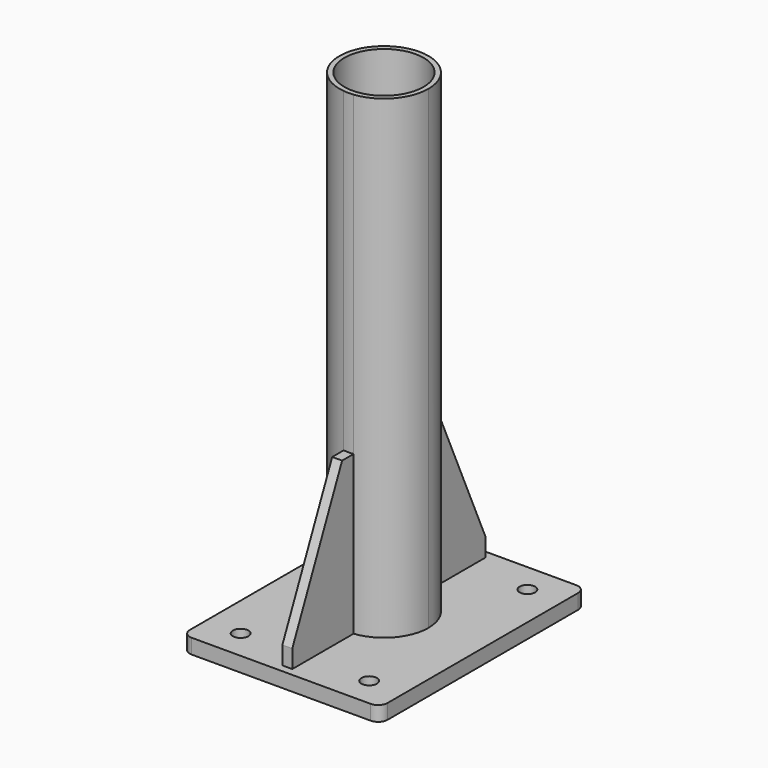
from build123d import *

# Parameters (mm, degrees)
F0_W     = 63.5
F0_H     = 82.55
F0_R     = 2.5
F0_R_2   = 12.7
F1_DEPTH = 4.7625
F2_DEPTH = 152.4
F3_DEPTH = 50.8
F4_DEPTH = 7.05
F5_DEPTH = 7.05
F6_R     = 3
F7_SIZE2 = 20
F7_SIZE  = 45
F8_SIZE2 = 20
F8_SIZE  = 45


with BuildPart() as f1:
    # F0 (on Top) → F1 (new body)
    with BuildSketch(Plane.XY):
        Rectangle(F0_W, F0_H)
        with Locations((-20.6375, -31.75)):
            Circle(F0_R, mode=Mode.SUBTRACT)
        with Locations((20.6375, -31.75)):
            Circle(F0_R, mode=Mode.SUBTRACT)
        with Locations((-20.6375, 25.4)):
            Circle(F0_R, mode=Mode.SUBTRACT)
        with Locations((-20.6375, 31.75)):
            Circle(F0_R, mode=Mode.SUBTRACT)
        with BuildLine():
            ThreePointArc((1.5875, 14.1990316571), (10.6492737428, 9.525), (14.2875, 0))
            ThreePointArc((14.2875, 0), (10.6492737428, -9.525), (1.5875, -14.1990316571))
            Line((1.5875, -14.1990316571), (1.5875, -31.75))
            Line((1.5875, -31.75), (0, -31.75))
            Line((0, -31.75), (-1.5875, -31.75))
            Line((-1.5875, -31.75), (-1.5875, -14.1990316571))
            ThreePointArc((-1.5875, -14.1990316571), (-14.2875, 0), (-1.5875, 14.1990316571))
            Line((-1.5875, 14.1990316571), (-1.5875, 31.75))
            Line((-1.5875, 31.75), (0, 31.75))
            Line((0, 31.75), (1.5875, 31.75))
            Line((1.5875, 31.75), (1.5875, 14.1990316571))
        make_face(mode=Mode.SUBTRACT)
        with Locations((20.6375, 25.4)):
            Circle(F0_R, mode=Mode.SUBTRACT)
        with Locations((20.6375, 31.75)):
            Circle(F0_R, mode=Mode.SUBTRACT)
        with BuildLine():
            Line((1.5875, -31.75), (1.5875, -14.1990316571))
            ThreePointArc((1.5875, -14.1990316571), (0, -14.2875), (-1.5875, -14.1990316571))
            Line((-1.5875, -14.1990316571), (-1.5875, -31.75))
            Line((-1.5875, -31.75), (0, -31.75))
            Line((0, -31.75), (1.5875, -31.75))
        make_face()
        with BuildLine():
            ThreePointArc((1.5875, -14.1990316571), (10.6492737428, -9.525), (14.2875, 0))
            ThreePointArc((14.2875, 0), (10.6492737428, 9.525), (1.5875, 14.1990316571))
            ThreePointArc((1.5875, 14.1990316571), (0, 14.2875), (-1.5875, 14.1990316571))
            ThreePointArc((-1.5875, 14.1990316571), (-14.2875, 0), (-1.5875, -14.1990316571))
            ThreePointArc((-1.5875, -14.1990316571), (0, -14.2875), (1.5875, -14.1990316571))
        make_face()
        Circle(F0_R_2, mode=Mode.SUBTRACT)
        Circle(F0_R_2)
        Circle(F0_R, mode=Mode.SUBTRACT)
        with BuildLine():
            ThreePointArc((-1.5875, 14.1990316571), (0, 14.2875), (1.5875, 14.1990316571))
            Line((1.5875, 14.1990316571), (1.5875, 31.75))
            Line((1.5875, 31.75), (0, 31.75))
            Line((0, 31.75), (-1.5875, 31.75))
            Line((-1.5875, 31.75), (-1.5875, 14.1990316571))
        make_face()
        with Locations((-20.6375, 25.4)):
            Circle(F0_R)
        with Locations((20.6375, 25.4)):
            Circle(F0_R)
    extrude(amount=-F1_DEPTH)

    # F0 (on Top) → F2 (join)
    with BuildSketch(Plane.XY):
        with BuildLine():
            ThreePointArc((1.5875, -14.1990316571), (10.6492737428, -9.525), (14.2875, 0))
            ThreePointArc((14.2875, 0), (10.6492737428, 9.525), (1.5875, 14.1990316571))
            ThreePointArc((1.5875, 14.1990316571), (0, 14.2875), (-1.5875, 14.1990316571))
            ThreePointArc((-1.5875, 14.1990316571), (-14.2875, 0), (-1.5875, -14.1990316571))
            ThreePointArc((-1.5875, -14.1990316571), (0, -14.2875), (1.5875, -14.1990316571))
        make_face()
        Circle(F0_R_2, mode=Mode.SUBTRACT)
    extrude(amount=F2_DEPTH)

    # F0 (on Top) → F3 (join)
    with BuildSketch(Plane.XY):
        with BuildLine():
            Line((1.5875, -31.75), (1.5875, -14.1990316571))
            ThreePointArc((1.5875, -14.1990316571), (0, -14.2875), (-1.5875, -14.1990316571))
            Line((-1.5875, -14.1990316571), (-1.5875, -31.75))
            Line((-1.5875, -31.75), (0, -31.75))
            Line((0, -31.75), (1.5875, -31.75))
        make_face()
        with BuildLine():
            ThreePointArc((-1.5875, 14.1990316571), (0, 14.2875), (1.5875, 14.1990316571))
            Line((1.5875, 14.1990316571), (1.5875, 31.75))
            Line((1.5875, 31.75), (0, 31.75))
            Line((0, 31.75), (-1.5875, 31.75))
            Line((-1.5875, 31.75), (-1.5875, 14.1990316571))
        make_face()
    extrude(amount=F3_DEPTH)

    # F4 (add): a face of the model
    f4_faces = [f1.faces().sort_by_distance(p)[0] for p in [
        (0, -31.75, 25.4),
    ]]
    extrude(f4_faces, amount=F4_DEPTH)

    # F5 (add): a face of the model
    f5_faces = [f1.faces().sort_by_distance(p)[0] for p in [
        (0, 31.75, 25.4),
    ]]
    extrude(f5_faces, amount=F5_DEPTH)

    # F6
    f6_edges = [f1.edges().sort_by_distance(p)[0] for p in [
        (31.75, -41.275, -2.38125),
        (31.75, 41.275, -2.38125),
        (-31.75, 41.275, -2.38125),
        (-31.75, -41.275, -2.38125),
    ]]
    fillet(f6_edges, radius=F6_R)

    # F7
    f7_edges = [f1.edges().sort_by_distance(p)[0] for p in [
        (0, -38.8, 50.8),
    ]]
    f7_side = f1.faces().sort_by_distance((0, -38.8, 25.4))[0]
    chamfer(f7_edges, length=F7_SIZE, length2=F7_SIZE2, reference=f7_side)

    # F8
    f8_edges = [f1.edges().sort_by_distance(p)[0] for p in [
        (0, 38.8, 50.8),
    ]]
    chamfer(f8_edges, length=F8_SIZE, length2=F8_SIZE2)


solid = f1.part
